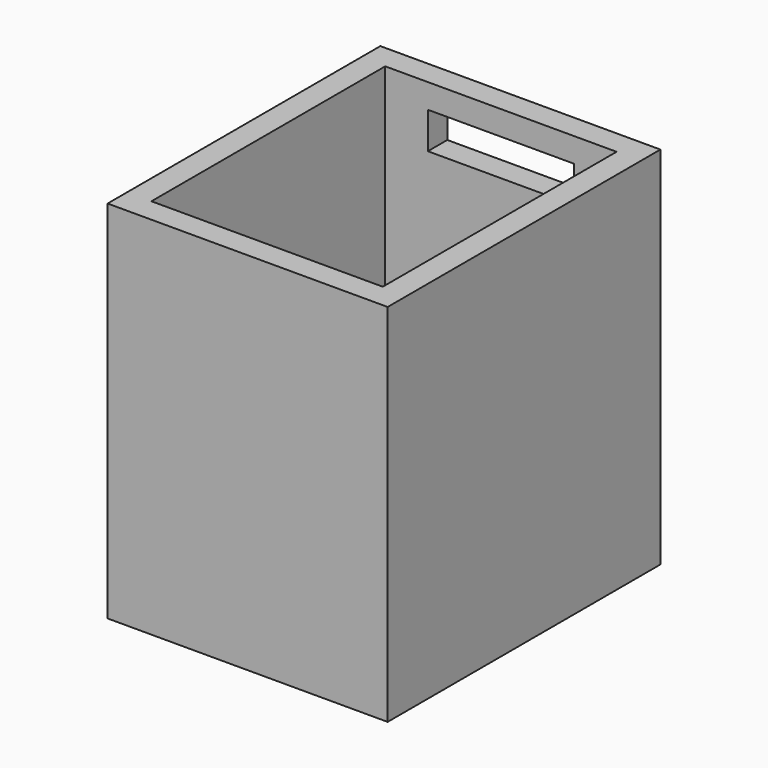
from build123d import *

# Parameters (mm, degrees)
F0_W     = 23
F0_H     = 28
F0_W_2   = 19
F0_H_2   = 24
F0_W_3   = 15
F0_H_3   = 20
F1_DEPTH = 2
F2_DEPTH = 25
F3_DEPTH = 30
F4_W     = 12
F4_H     = 3
F5_DEPTH = 5
F6_W     = 11
F6_H     = 2
F7_DEPTH = 2


with BuildPart() as f1:
    # F0 (on Top) → F1 (new body)
    with BuildSketch(Plane.XY):
        Rectangle(F0_W, F0_H)
        Rectangle(F0_W_2, F0_H_2, mode=Mode.SUBTRACT)
        Rectangle(F0_W_2, F0_H_2)
        Rectangle(F0_W_3, F0_H_3, mode=Mode.SUBTRACT)
        Rectangle(F0_W_3, F0_H_3)
    extrude(amount=F1_DEPTH)

    # F0 (on Top) → F2 (cut)
    with BuildSketch(Plane.XY):
        Rectangle(F0_W_3, F0_H_3)
    extrude(amount=F2_DEPTH, mode=Mode.SUBTRACT)

    # F0 (on Top) → F3 (join)
    with BuildSketch(Plane.XY):
        Rectangle(F0_W, F0_H)
        Rectangle(F0_W_2, F0_H_2, mode=Mode.SUBTRACT)
    extrude(amount=F3_DEPTH)

    # F4 (on face) → F5 (cut)
    with BuildSketch(Plane(origin=(0, 14, 0), x_dir=(-1, 0, 0), z_dir=(0, 1, 0))):
        with Locations((0, 26.5)):
            Rectangle(F4_W, F4_H)
    extrude(amount=-F5_DEPTH, mode=Mode.SUBTRACT)

    # F6 (on face) → F7 (join)
    with BuildSketch(Plane(origin=(0, -12, 0), x_dir=(-1, 0, 0), z_dir=(0, 1, 0))):
        with Locations((0, 26.5)):
            Rectangle(F6_W, F6_H)
    extrude(amount=F7_DEPTH)


solid = f1.part
